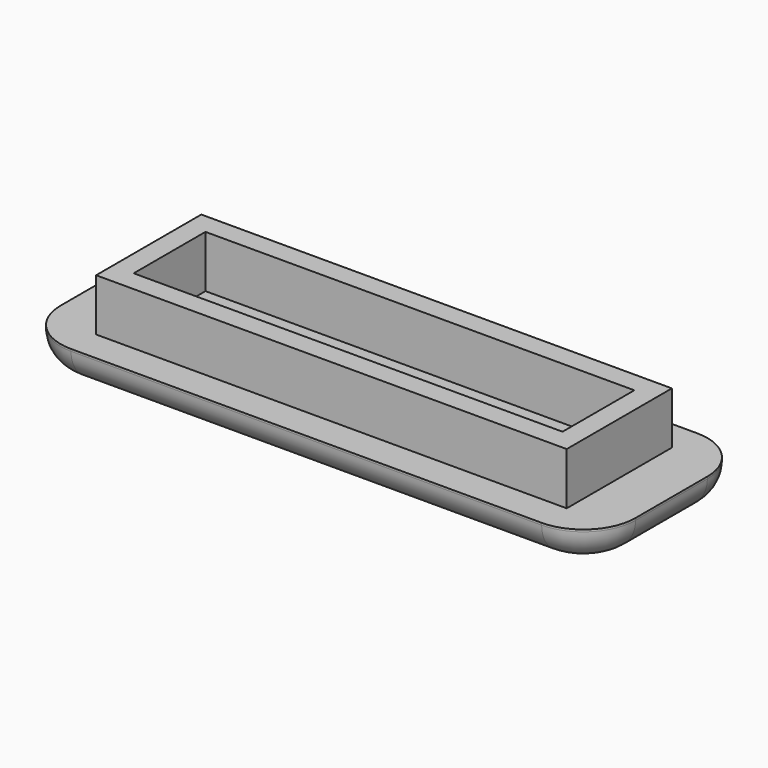
from build123d import *

# Parameters (mm, degrees)
F0_W     = 57.277
F0_H     = 16.002
F0_W_2   = 52.197
F0_H_2   = 10.922
F0_R     = 2.794
F1_DEPTH = 4.064
F2_DEPTH = 6.35
F3_R     = 3.81


with BuildPart() as f1:
    # F0 (on Top) → F1 (new body)
    with BuildSketch(Plane.XY):
        with BuildLine():
            Line((54.737, 17.272), (-2.54, 17.272))
            ThreePointArc((-2.54, 17.272), (-7.030128, 15.412128), (-8.89, 10.922))
            Line((-8.89, 10.922), (-8.89, 0))
            ThreePointArc((-8.89, 0), (-7.030128, -4.490128), (-2.54, -6.35))
            Line((-2.54, -6.35), (54.737, -6.35))
            ThreePointArc((54.737, -6.35), (59.227128, -4.490128), (61.087, 0))
            Line((61.087, 0), (61.087, 10.922))
            ThreePointArc((61.087, 10.922), (59.227128, 15.412128), (54.737, 17.272))
        make_face()
        with Locations((26.0985, 5.461)):
            Rectangle(F0_W, F0_H, mode=Mode.SUBTRACT)
        with Locations((26.0985, 5.461)):
            Rectangle(F0_W, F0_H)
        with Locations((26.0985, 5.461)):
            Rectangle(F0_W_2, F0_H_2, mode=Mode.SUBTRACT)
        with Locations((26.0985, 5.461)):
            Rectangle(F0_W_2, F0_H_2)
        with Locations((7.0485, 5.461)):
            Circle(F0_R, mode=Mode.SUBTRACT)
        with Locations((26.0985, 5.461)):
            Circle(F0_R, mode=Mode.SUBTRACT)
        with Locations((45.1485, 5.461)):
            Circle(F0_R, mode=Mode.SUBTRACT)
    extrude(amount=-F1_DEPTH)

    # F0 (on Top) → F2 (join)
    with BuildSketch(Plane.XY):
        with Locations((26.0985, 5.461)):
            Rectangle(F0_W, F0_H)
        with Locations((26.0985, 5.461)):
            Rectangle(F0_W_2, F0_H_2, mode=Mode.SUBTRACT)
    extrude(amount=F2_DEPTH)

    # F3
    f3_edges = [f1.edges().sort_by_distance(p)[0] for p in [
        (26.0985, -6.35, -4.064),
    ]]
    fillet(f3_edges, radius=F3_R)


solid = f1.part
